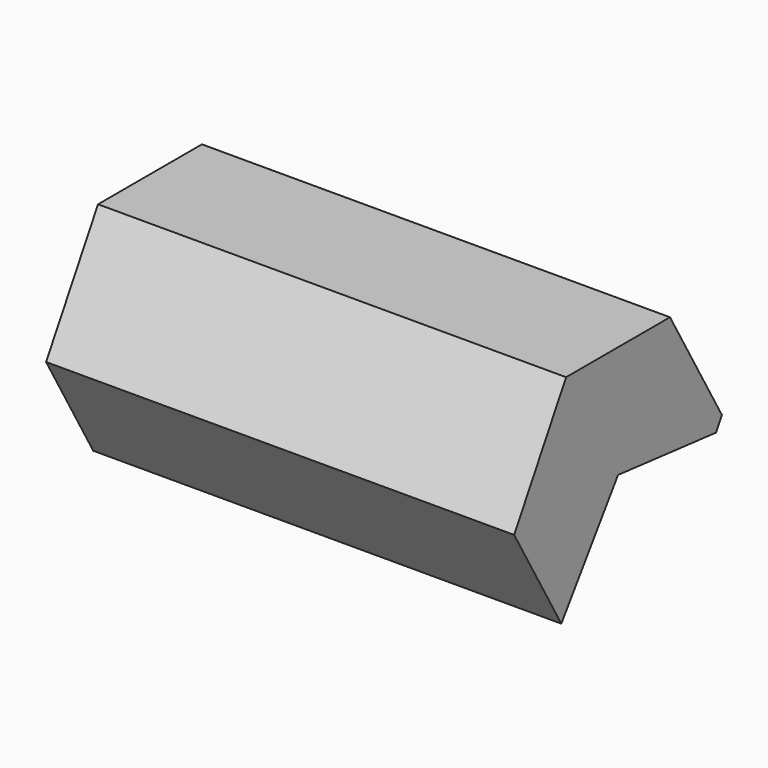
from build123d import *

# Parameters (mm, degrees)
F1_DEPTH = 127


with BuildPart() as f1:
    # F0 (on Right) → F1 (new body, symmetric)
    with BuildSketch(Plane.YZ):
        Polygon((-154.398493, 87.090496), (-115.932986, 142.508402), (-49.40985, 135.687735), (-45.471936, 142.508402), (-80.702461, 203.529462), (-151.163511, 203.529462), (-186.394036, 142.508402), align=None)
    extrude(amount=F1_DEPTH, both=True)


solid = f1.part
